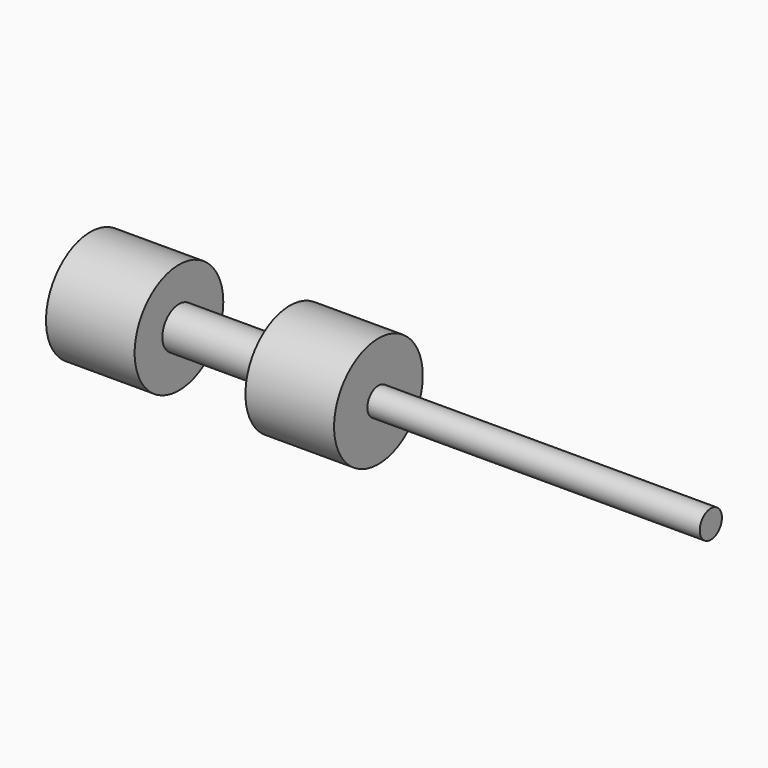
from build123d import *

# Parameters (mm, degrees)
F0_R     = 4.7625
F1_DEPTH = 12.7
F2_R     = 12.7
F3_DEPTH = 20.32
F5_R     = 3.175
F6_DEPTH = 76.2


with BuildPart() as f1:
    # F0 (on Right) → F1 (new body)
    with BuildSketch(Plane.YZ):
        Circle(F0_R)
    extrude(amount=F1_DEPTH)

    # F2 (on face) → F3 (join)
    with BuildSketch(Plane.YZ.offset(12.7)):
        Circle(F2_R)
    extrude(amount=F3_DEPTH)

    # F4: F1 across plane


with BuildPart() as f1_1:
    add(f1.part)
    add(f1.part.mirror(Plane.YZ))

    # F5 (on face) → F6 (join)
    with BuildSketch(Plane.YZ.offset(33.02)):
        Circle(F5_R)
    extrude(amount=F6_DEPTH)


solid = f1_1.part
